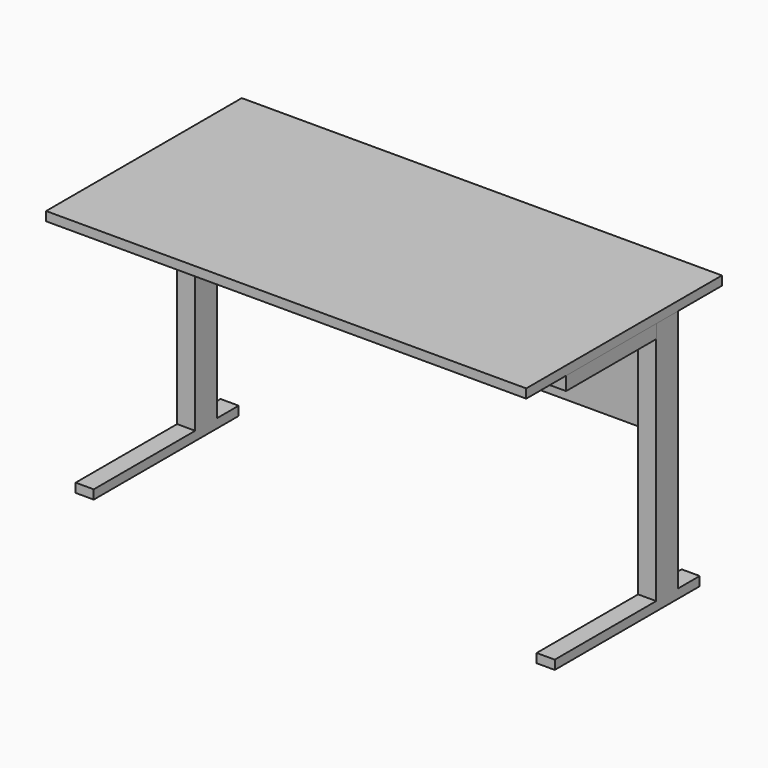
from build123d import *

# Parameters (mm, degrees)
F0_W          = 1346.2
F0_H          = 685.8
F1_DEPTH      = 25.4
F2_W          = 50.8
F2_H          = 76.2
F3_DEPTH      = 685.8
F4_W          = 1344.644603
F4_H          = 317.5
F5_DEPTH      = 38.1
F6_W          = 50.8
F6_H          = 25.4
F8_DEPTH      = 76.2
F8_DEPTH_BACK = 431.8
F7_W          = 50.8
F7_H          = 25.4
F9_DEPTH      = 76.2
F9_DEPTH_BACK = 431.8
F10_W         = 1244.6
F10_H         = 304.8
F11_DEPTH     = 25.4


with BuildPart() as f1:
    # F0 (on Top) → F1 (new body)
    with BuildSketch(Plane.XY):
        with Locations((2.175501, 32.721092)):
            Rectangle(F0_W, F0_H)
    extrude(amount=F1_DEPTH)



with BuildPart() as f3:
    # F2 (on Top) → F3 (new body)
    with BuildSketch(Plane.XY):
        with Locations((-643.969102, 185.121092)):
            Rectangle(F2_W, F2_H)
        with Locations((648.571236, 185.121092)):
            Rectangle(F2_W, F2_H)
    extrude(amount=-F3_DEPTH)


with BuildPart() as f1_1:
    add(f1.part)

    add(f3.part)  # F5 merges F3
    # F4 (on face) → F5 (join)
    with BuildSketch(Plane(origin=(0, 0, 0), x_dir=(1, 0, 0), z_dir=(0, 0, -1))):
        with Locations((2.953199, 11.728908)):
            Rectangle(F4_W, F4_H)
    extrude(amount=F5_DEPTH)

    # F6 (on face) → F8 (join, two sides)
    with BuildSketch(Plane(origin=(0, 223.221092, 0), x_dir=(-1, 0, 0), z_dir=(0, 1, 0))) as f8_sk:
        with Locations((-648.571236, -698.5)):
            Rectangle(F6_W, F6_H)
    extrude(amount=F8_DEPTH)
    extrude(f8_sk.sketch, amount=-F8_DEPTH_BACK)

    # F7 (on face) → F9 (join, two sides)
    with BuildSketch(Plane(origin=(0, 223.221092, 0), x_dir=(-1, 0, 0), z_dir=(0, 1, 0))) as f9_sk:
        with Locations((643.969102, -698.5)):
            Rectangle(F7_W, F7_H)
    extrude(amount=F9_DEPTH)
    extrude(f9_sk.sketch, amount=-F9_DEPTH_BACK)

    # F10 (on face) → F11 (join)
    with BuildSketch(Plane(origin=(0, 223.221092, 0), x_dir=(-1, 0, 0), z_dir=(0, 1, 0))):
        with Locations((-0.871236, -152.4)):
            Rectangle(F10_W, F10_H)
    extrude(amount=-F11_DEPTH)


solid = f1_1.part
